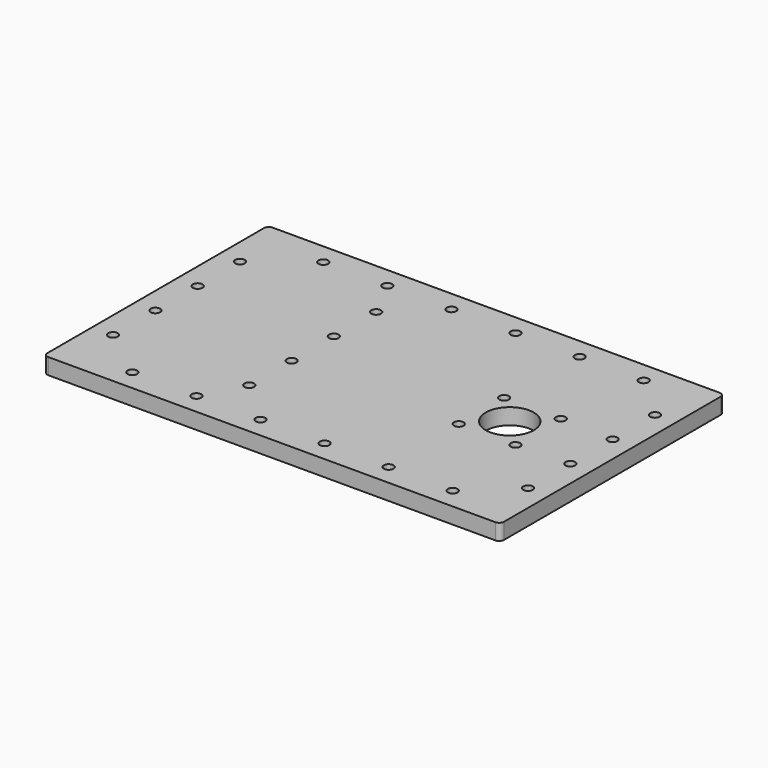
from build123d import *

# Parameters (mm, degrees)
SKETCH_W   = 285
SKETCH_H   = 175
SKETCH_R   = 15
SKETCH_R_2 = 3
PAD_DEPTH  = 10
FILLET_R   = 3


with BuildPart() as part:
    # Sketch → Pad (new body)
    with BuildSketch(Plane.XY):
        with Locations((57.5, 100)):
            Rectangle(SKETCH_W, SKETCH_H)
        with Locations((136, 100)):
            Circle(SKETCH_R, mode=Mode.SUBTRACT)
        with Locations((118.32233, 117.67767)):
            Circle(SKETCH_R_2, mode=Mode.SUBTRACT)
        with Locations((153.67767, 117.67767)):
            Circle(SKETCH_R_2, mode=Mode.SUBTRACT)
        with Locations((118.32233, 82.32233)):
            Circle(SKETCH_R_2, mode=Mode.SUBTRACT)
        with Locations((153.67767, 82.32233)):
            Circle(SKETCH_R_2, mode=Mode.SUBTRACT)
        with Locations((40, 25.5)):
            Circle(SKETCH_R_2, mode=Mode.SUBTRACT)
        with Locations((160, 25.5)):
            Circle(SKETCH_R_2, mode=Mode.SUBTRACT)
        with Locations((80, 25.5)):
            Circle(SKETCH_R_2, mode=Mode.SUBTRACT)
        with Locations((120, 25.5)):
            Circle(SKETCH_R_2, mode=Mode.SUBTRACT)
        with Locations((40, 174.5)):
            Circle(SKETCH_R_2, mode=Mode.SUBTRACT)
        with Locations((80, 174.5)):
            Circle(SKETCH_R_2, mode=Mode.SUBTRACT)
        with Locations((120, 174.5)):
            Circle(SKETCH_R_2, mode=Mode.SUBTRACT)
        with Locations((160, 174.5)):
            Circle(SKETCH_R_2, mode=Mode.SUBTRACT)
        with Locations((13, 149.5)):
            Circle(SKETCH_R_2, mode=Mode.SUBTRACT)
        with Locations((13, 116.5)):
            Circle(SKETCH_R_2, mode=Mode.SUBTRACT)
        with Locations((13, 83.5)):
            Circle(SKETCH_R_2, mode=Mode.SUBTRACT)
        with Locations((13, 50.5)):
            Circle(SKETCH_R_2, mode=Mode.SUBTRACT)
        with Locations((187, 149.5)):
            Circle(SKETCH_R_2, mode=Mode.SUBTRACT)
        with Locations((187, 116.5)):
            Circle(SKETCH_R_2, mode=Mode.SUBTRACT)
        with Locations((187, 83.5)):
            Circle(SKETCH_R_2, mode=Mode.SUBTRACT)
        with Locations((187, 50.5)):
            Circle(SKETCH_R_2, mode=Mode.SUBTRACT)
        with Locations((-72, 149.5)):
            Circle(SKETCH_R_2, mode=Mode.SUBTRACT)
        with Locations((-72, 116.5)):
            Circle(SKETCH_R_2, mode=Mode.SUBTRACT)
        with Locations((-72, 83.5)):
            Circle(SKETCH_R_2, mode=Mode.SUBTRACT)
        with Locations((-72, 50.5)):
            Circle(SKETCH_R_2, mode=Mode.SUBTRACT)
        with Locations((-40, 25.5)):
            Circle(SKETCH_R_2, mode=Mode.SUBTRACT)
        with Locations((0, 25.5)):
            Circle(SKETCH_R_2, mode=Mode.SUBTRACT)
        with Locations((-40, 174.5)):
            Circle(SKETCH_R_2, mode=Mode.SUBTRACT)
        with Locations((0, 174.5)):
            Circle(SKETCH_R_2, mode=Mode.SUBTRACT)
    extrude(amount=PAD_DEPTH)

    # Fillet
    fillet_edges = [part.edges().sort_by_distance(p)[0] for p in [
        (200, 12.5, 5),
        (200, 187.5, 5),
        (-85, 12.5, 5),
        (-85, 187.5, 5),
    ]]
    fillet(fillet_edges, radius=FILLET_R)


solid = part.part
